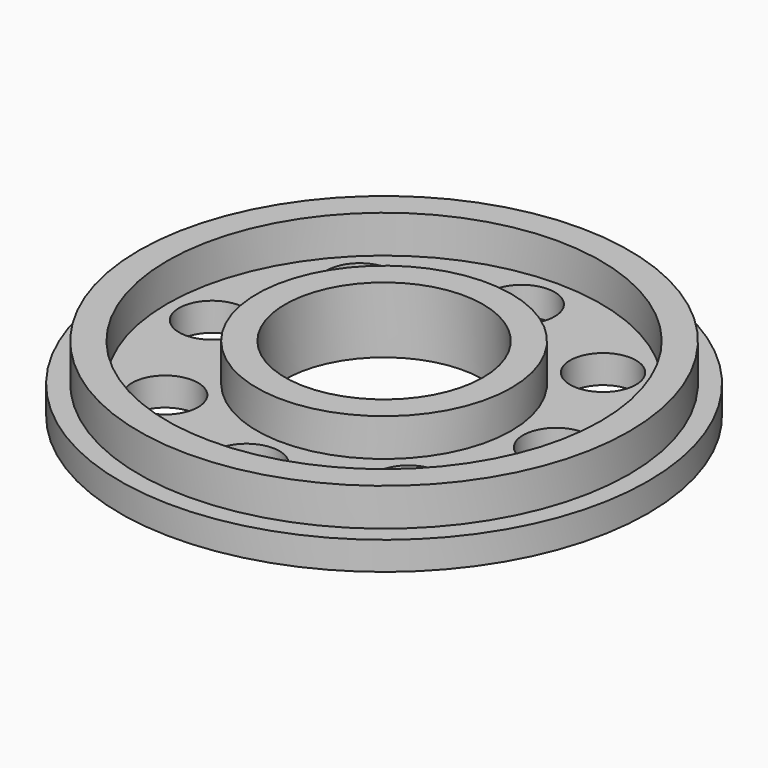
from build123d import *

# Parameters (mm, degrees)
F0_R     = 28
F1_DEPTH = 3
F2_R     = 26
F3_DEPTH = 4
F4_R     = 10.5
F5_DEPTH = 7.001
F6_T     = -3
F7_R     = 3.5
F8_DEPTH = 3.001


with BuildPart() as f1:
    # F0 (on Top) → F1 (new body)
    with BuildSketch(Plane.XY):
        Circle(F0_R)
    extrude(amount=F1_DEPTH)

    # F2 (on face) → F3 (join)
    with BuildSketch(Plane.XY.offset(3)):
        Circle(F2_R)
    extrude(amount=F3_DEPTH)

    # F4 (on face) → F5 (cut, through all)
    with BuildSketch(Plane.XY.offset(7)):
        Circle(F4_R)
    extrude(amount=-F5_DEPTH, mode=Mode.SUBTRACT)

    # F6
    f6_openings = [f1.faces().sort_by_distance(p)[0] for p in [
        (-25.264609, 0, 7),
    ]]
    offset(amount=F6_T, openings=f6_openings, kind=Kind.INTERSECTION)

    # F7 (on face) → F8 (cut, through all)
    with BuildSketch(Plane.XY.offset(3)):
        with Locations((-18.25, 0)):
            Circle(F7_R)
        with Locations((-12.9046987567, -12.9046987567)):
            Circle(F7_R)
        with Locations((0, -18.25)):
            Circle(F7_R)
        with Locations((12.9046987567, -12.9046987567)):
            Circle(F7_R)
        with Locations((18.25, 0)):
            Circle(F7_R)
        with Locations((12.9046987567, 12.9046987567)):
            Circle(F7_R)
        with Locations((0, 18.25)):
            Circle(F7_R)
        with Locations((-12.9046987567, 12.9046987567)):
            Circle(F7_R)
    extrude(amount=-F8_DEPTH, mode=Mode.SUBTRACT)


solid = f1.part
